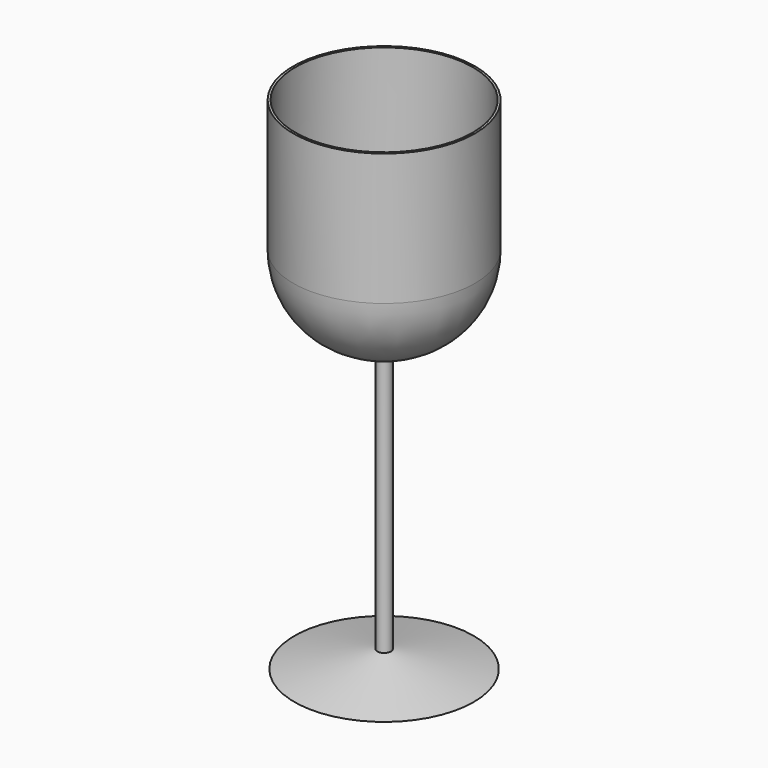
from build123d import *

# Parameters (mm, degrees)
F0_R      = 101.6
F1_DEPTH  = 241.3
F2_R      = 93.98
F1_FACE_R = 7.62
F3_DEPTH  = 304.8
F6_T      = -2.54


with BuildPart() as f1:
    # F0 (on Top) → F1 (new body)
    with BuildSketch(Plane.XY):
        Circle(F0_R)
    extrude(amount=F1_DEPTH)

    # F2
    f2_edges = [f1.edges().sort_by_distance(p)[0] for p in [
        (-101.6, 0, 0),
    ]]
    fillet(f2_edges, radius=F2_R)

    # F6
    f6_openings = [f1.faces().sort_by_distance(p)[0] for p in [
        (0, 0, 241.3),
    ]]
    offset(amount=F6_T, openings=f6_openings)


with BuildPart() as f3:
    # F1_face (on face) → F3 (new body)
    with BuildSketch(Plane(origin=(0, 0, 0), x_dir=(1, 0, 0), z_dir=(0, 0, -1))):
        Circle(F1_FACE_R)
    extrude(amount=F3_DEPTH)

    # F4 (on Front) → F5 (revolve)
    with BuildSketch(Plane.XZ):
        Polygon((100.123599, -318.152934), (0, -296.886891), (0, -318.152934), align=None)
    revolve(axis=Axis((0, 0, -307.519913), (0, 0, 1)))


solid = Compound([f1.part, f3.part])
